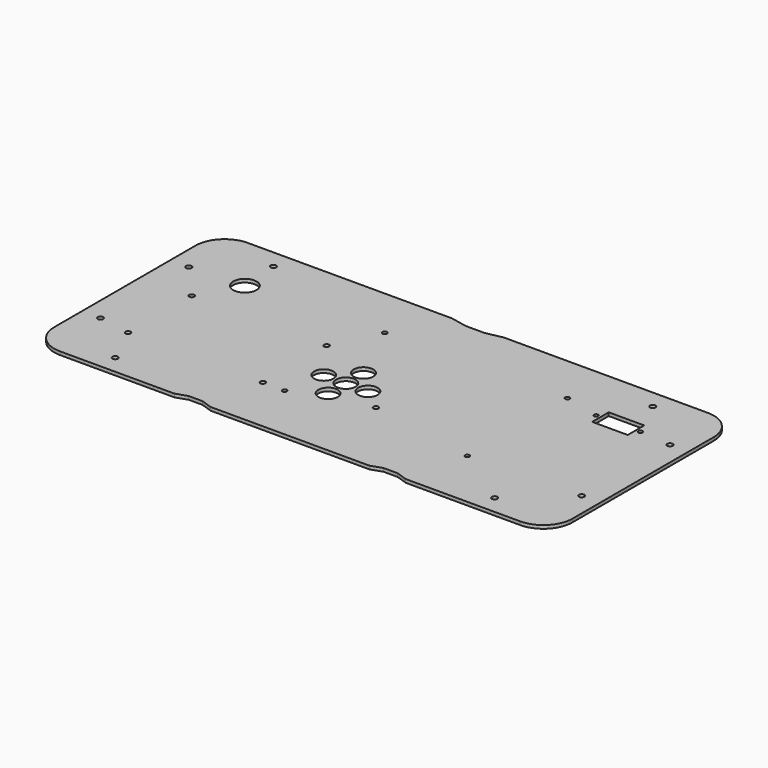
from build123d import *

# Parameters (mm, degrees)
F0_R     = 1.9
F0_R_2   = 8.05
F0_R_3   = 1.475
F0_W     = 24.5
F0_H     = 14.25
F3_DEPTH = 2.286
F2_R     = 1.75
F4_DEPTH = 2.286
F1_R     = 1.55
F1_R_2   = 1.75
F1_R_3   = 6.72
F5_DEPTH = 2.286


with BuildPart() as f3:
    # F0 (on Top) → F3 (new body)
    with BuildSketch(Plane.XY):
        with BuildLine():
            Line((-17.961566, 79.945827), (-158.734, 79.945827))
            ThreePointArc((-158.734, 79.945827), (-172.922805, 74.068631), (-178.8, 59.879827))
            Line((-178.8, 59.879827), (-178.8, -61.988173))
            ThreePointArc((-178.8, -61.988173), (-172.922805, -76.176978), (-158.734, -82.054173))
            Line((-158.734, -82.054173), (-79.8, -82.054173))
            Line((-79.8, -82.054173), (-72.08434, -79.454173))
            Line((-72.08434, -79.454173), (-62.51534, -79.454173))
            Line((-62.51534, -79.454173), (-54.8, -82.054173))
            Line((-54.8, -82.054173), (54.8, -82.054173))
            Line((54.8, -82.054173), (62.515, -79.454173))
            Line((62.515, -79.454173), (72.084, -79.454173))
            Line((72.084, -79.454173), (79.8, -82.054173))
            Line((79.8, -82.054173), (158.734, -82.054173))
            ThreePointArc((158.734, -82.054173), (172.922805, -76.176978), (178.8, -61.988173))
            Line((178.8, -61.988173), (178.8, 59.879827))
            ThreePointArc((178.8, 59.879827), (172.922805, 74.068631), (158.734, 79.945827))
            Line((158.734, 79.945827), (17.961566, 79.945827))
            Line((17.961566, 79.945827), (6.5, 77.595827))
            Line((6.5, 77.595827), (-6.5, 77.595827))
            Line((-6.5, 77.595827), (-17.961566, 79.945827))
        make_face()
        with Locations((-130.9, -69.243173)):
            Circle(F0_R, mode=Mode.SUBTRACT)
        with Locations((-165.989, -38.1)):
            Circle(F0_R, mode=Mode.SUBTRACT)
        with Locations((130.9, -69.243173)):
            Circle(F0_R, mode=Mode.SUBTRACT)
        with Locations((165.989, -38.1)):
            Circle(F0_R, mode=Mode.SUBTRACT)
        with Locations((-165.989, 38.1)):
            Circle(F0_R, mode=Mode.SUBTRACT)
        with Locations((-128.8, 39.945827)):
            Circle(F0_R_2, mode=Mode.SUBTRACT)
        with Locations((-130.9, 67.134827)):
            Circle(F0_R, mode=Mode.SUBTRACT)
        with Locations((165.989, 38.1)):
            Circle(F0_R, mode=Mode.SUBTRACT)
        with Locations((113.525, 39.945827)):
            Circle(F0_R_3, mode=Mode.SUBTRACT)
        with Locations((128.8, 39.945827)):
            Rectangle(F0_W, F0_H, mode=Mode.SUBTRACT)
        with Locations((144.075, 39.95638)):
            Circle(F0_R_3, mode=Mode.SUBTRACT)
        with Locations((130.9, 67.134827)):
            Circle(F0_R, mode=Mode.SUBTRACT)
    extrude(amount=F3_DEPTH)

    # F2 (on face) → F4 (cut)
    with BuildSketch(Plane.XY):
        with Locations((-143.8, 12.895827)):
            Circle(F2_R)
        with Locations((-143.8, -42.054173)):
            Circle(F2_R)
        with Locations((-50.75, 12.895827)):
            Circle(F2_R)
        with Locations((-50.75, -42.054173)):
            Circle(F2_R)
    extrude(amount=F4_DEPTH, mode=Mode.SUBTRACT)

    # F1 (on face) → F5 (cut)
    with BuildSketch(Plane.XY):
        with Locations((88.837988, -40.262036)):
            Circle(F1_R)
        with Locations((88.837988, 46.097964)):
            Circle(F1_R)
        with Locations((-35.622012, 44.117964)):
            Circle(F1_R)
        with Locations((-35.622012, -42.242036)):
            Circle(F1_R)
        with Locations((15.177988, -27.002036)):
            Circle(F1_R_2)
        with Locations((-30.542012, -14.862036)):
            Circle(F1_R_3)
        with Locations((-15.302012, -14.862036)):
            Circle(F1_R_3)
        with Locations((-15.302012, 0.377964)):
            Circle(F1_R_3)
        with Locations((-0.062012, -14.862036)):
            Circle(F1_R_3)
        with Locations((-15.302012, -30.102036)):
            Circle(F1_R_3)
    extrude(amount=F5_DEPTH, mode=Mode.SUBTRACT)


solid = f3.part
